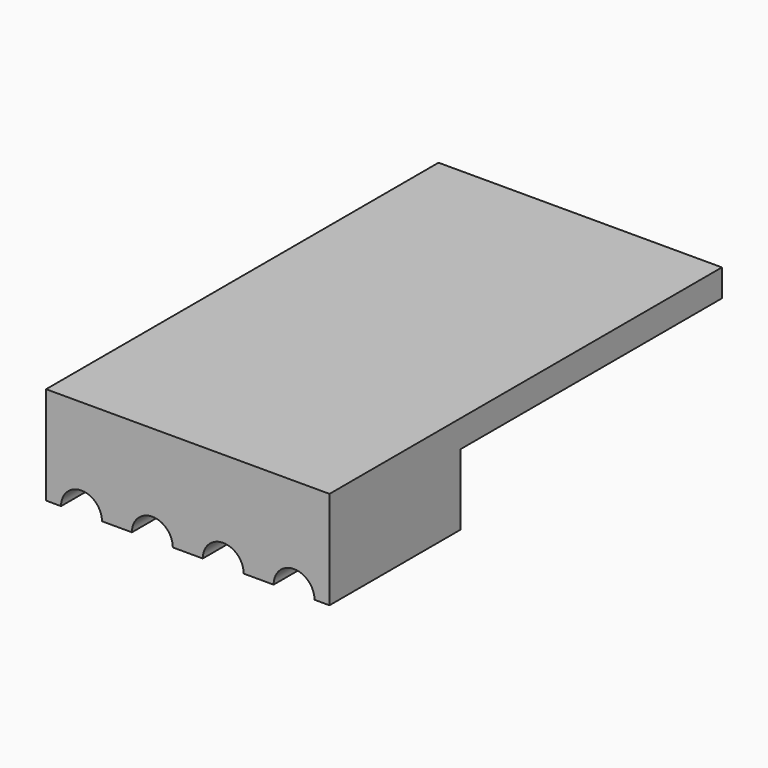
from build123d import *

# Parameters (mm, degrees)
BOX018_W          = 30
BOX018_H          = 20
BOX018_DEPTH      = 9.2
BOX013_W          = 26
BOX013_H          = 12
BOX013_DEPTH      = 5.2
CYLINDER006_R     = 0.75
CYLINDER006_DEPTH = 7
ARRAY006_X_COUNT  = 4
ARRAY006_X_PITCH  = 2.6
ARRAY006_Y_COUNT  = 2
ARRAY006_Y_PITCH  = 1
BOX012_W          = 10.4
BOX012_H          = 18
BOX012_DEPTH      = 7.2


with BuildPart() as obj1:
    # Box018 → Box018 (new body)
    with BuildSketch(Plane(origin=(-1, -2, -5.6), x_dir=(1, 0, 0), z_dir=(0, 0, 1))):
        with Locations((15, 10)):
            Rectangle(BOX018_W, BOX018_H)
    extrude(amount=BOX018_DEPTH)


with BuildPart() as cube_10_base008:
    # Box013 → Box013 (new body)
    with BuildSketch(Plane(origin=(0, 6, 1), x_dir=(1, 0, 0), z_dir=(0, 0, 1))):
        with Locations((13, 6)):
            Rectangle(BOX013_W, BOX013_H)
    extrude(amount=BOX013_DEPTH)


with BuildPart() as array006:
    # Cylinder006 → Cylinder006 (new body)
    with BuildSketch(Plane(origin=(1.3, -1, 3.6), x_dir=(1, 0, 0), z_dir=(0, 1, 0))):
        Circle(CYLINDER006_R)
    extrude(amount=CYLINDER006_DEPTH)

    # Array006 X: Array006 ×4


with BuildPart() as array006_1:
    add(array006.part)
    with Locations(*[(i * ARRAY006_X_PITCH, 0, 0) for i in range(1, ARRAY006_X_COUNT)]):
        add(array006.part)

    # Array006 Y: Array006 ×2


with BuildPart() as array006_2:
    add(array006_1.part)
    with Locations(*[(0, i * ARRAY006_Y_PITCH, 0) for i in range(1, ARRAY006_Y_COUNT)]):
        add(array006_1.part)


with BuildPart() as obj2:
    # Box012 → Box012 (new body)
    with BuildSketch(Plane.XY):
        with Locations((5.2, 9)):
            Rectangle(BOX012_W, BOX012_H)
    extrude(amount=BOX012_DEPTH)

    # Cut013: cut Array006
    add(array006_2.part, mode=Mode.SUBTRACT)

    # Cut012: cut cube_10_base008
    add(cube_10_base008.part, mode=Mode.SUBTRACT)

    # Cut018: cut obj1
    add(obj1.part, mode=Mode.SUBTRACT)


solid = obj2.part
